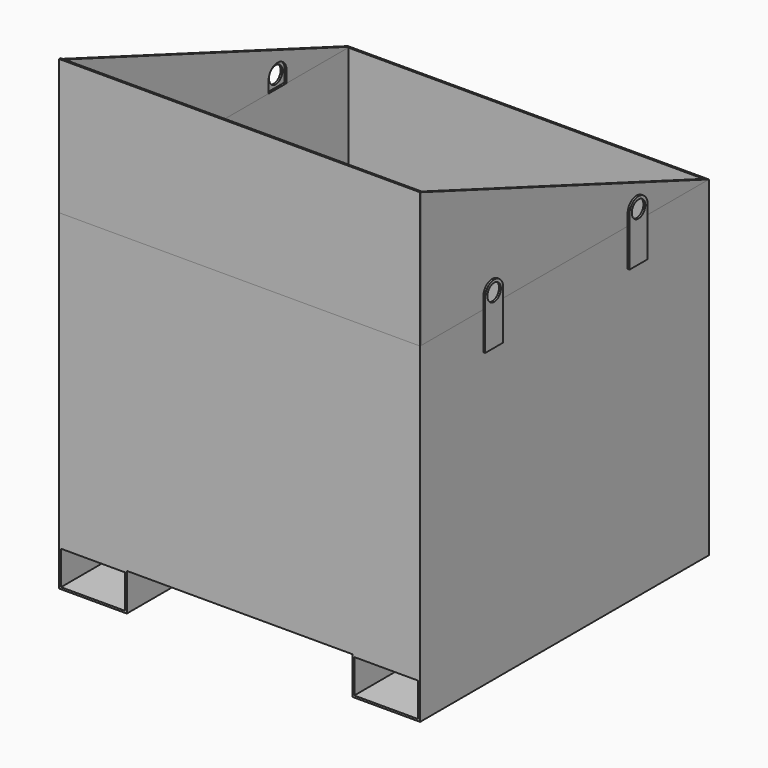
from build123d import *

# Parameters (mm, degrees)
F0_W      = 228.6
F0_H      = 127
F0_W_2    = 215.9
F0_H_2    = 114.3
F1_DEPTH  = 1219.2
F2_W      = 1206.5
F2_H      = 1206.5
F3_DEPTH  = 965.2
F4_DEPTH  = 1219.2
F5_R      = 28.575
F7_DEPTH  = 6.35
F5_W      = 76.2
F5_H      = 126.3139492095
F6_W      = 76.2
F6_H      = 127
F6_R      = 28.575
F8_DEPTH  = 6.35
F9_DEPTH  = 6.35
F10_DEPTH = 6.35
F11_W     = 1219.2
F11_H     = 457.2
F12_DEPTH = 6.35


with BuildPart() as f1:
    # F0 (on Front) → F1 (new body)
    with BuildSketch(Plane.XZ):
        Polygon((1299.3415698051, 1047.566442287), (80.1415698051, 1047.566442287), (80.1415698051, 56.966442287), (308.7415698051, 56.966442287), (1070.7415698051, 56.966442287), (1299.3415698051, 56.966442287), align=None)
        with Locations((194.4415698051, -6.533557713)):
            Rectangle(F0_W, F0_H)
        with Locations((194.4415698051, -6.533557713)):
            Rectangle(F0_W_2, F0_H_2, mode=Mode.SUBTRACT)
        with Locations((1185.0415698051, -6.533557713)):
            Rectangle(F0_W, F0_H)
        with Locations((1185.0415698051, -6.533557713)):
            Rectangle(F0_W_2, F0_H_2, mode=Mode.SUBTRACT)
    extrude(amount=F1_DEPTH)

    # F2 (on face) → F3 (cut)
    with BuildSketch(Plane.XY.offset(1047.566442287)):
        with Locations((689.7415698051, -609.6)):
            Rectangle(F2_W, F2_H)
    extrude(amount=-F3_DEPTH, mode=Mode.SUBTRACT)

    # F0 (on Front) → F4 (cut)
    with BuildSketch(Plane.XZ):
        with Locations((1185.0415698051, -6.533557713)):
            Rectangle(F0_W_2, F0_H_2)
        with Locations((194.4415698051, -6.533557713)):
            Rectangle(F0_W_2, F0_H_2)
    extrude(amount=F4_DEPTH, mode=Mode.SUBTRACT)

    # F5 (on face) → F7, piece 2 (join)
    with BuildSketch(Plane(origin=(80.1415698051, 0, 0), x_dir=(0, -1, 0), z_dir=(-1, 0, 0))):
        with Locations((304.8, 984.4094676822)):
            Rectangle(F5_W, F5_H)
        with Locations((914.4, 984.4094676822)):
            Rectangle(F5_W, F5_H)
    extrude(amount=F7_DEPTH)

    # F6 (on face) → F8 (join)
    with BuildSketch(Plane.YZ.offset(1299.3415698051)):
        with Locations((-914.4, 984.066442287)):
            Rectangle(F6_W, F6_H)
        with BuildLine():
            Line((-952.5, 1047.566442287), (-876.3, 1047.566442287))
            Line((-876.3, 1047.566442287), (-876.3, 1085.666442287))
            ThreePointArc((-876.3, 1085.666442287), (-914.4, 1123.766442287), (-952.5, 1085.666442287))
            Line((-952.5, 1085.666442287), (-952.5, 1047.566442287))
        make_face()
        with Locations((-914.4, 1085.666442287)):
            Circle(F6_R, mode=Mode.SUBTRACT)
        with Locations((-304.8, 984.066442287)):
            Rectangle(F6_W, F6_H)
        with BuildLine():
            Line((-342.9, 1085.666442287), (-342.9, 1047.566442287))
            Line((-342.9, 1047.566442287), (-266.7, 1047.566442287))
            Line((-266.7, 1047.566442287), (-266.7, 1085.666442287))
            ThreePointArc((-266.7, 1085.666442287), (-304.8, 1123.766442287), (-342.9, 1085.666442287))
        make_face()
        with Locations((-304.8, 1085.666442287)):
            Circle(F6_R, mode=Mode.SUBTRACT)
    extrude(amount=F8_DEPTH)


with BuildPart() as f7:
    # F5 (on face) → F7 (new body)
    with BuildSketch(Plane(origin=(80.1415698051, 0, 0), x_dir=(0, -1, 0), z_dir=(-1, 0, 0))):
        with BuildLine():
            Line((266.7, 1048.2524930775), (342.9, 1048.2524930775))
            Line((342.9, 1048.2524930775), (342.9, 1086.3524930775))
            ThreePointArc((342.9, 1086.3524930775), (304.8, 1124.4524930775), (266.7, 1086.3524930775))
            Line((266.7, 1086.3524930775), (266.7, 1048.2524930775))
        make_face()
        with Locations((304.8, 1086.3524930775)):
            Circle(F5_R, mode=Mode.SUBTRACT)
    extrude(amount=F7_DEPTH)


with BuildPart() as f7b:
    # F5 (on face) → F7, piece 3 (new body)
    with BuildSketch(Plane(origin=(80.1415698051, 0, 0), x_dir=(0, -1, 0), z_dir=(-1, 0, 0))):
        with BuildLine():
            Line((876.3, 1086.3524930775), (876.3, 1048.2524930775))
            Line((876.3, 1048.2524930775), (952.5, 1048.2524930775))
            Line((952.5, 1048.2524930775), (952.5, 1086.3524930775))
            ThreePointArc((952.5, 1086.3524930775), (914.4, 1124.4524930775), (876.3, 1086.3524930775))
        make_face()
        with Locations((914.4, 1086.3524930775)):
            Circle(F5_R, mode=Mode.SUBTRACT)
    extrude(amount=F7_DEPTH)


with BuildPart() as f9:
    # F5 (on face) → F9 (new body)
    with BuildSketch(Plane(origin=(80.1415698051, 0, 0), x_dir=(0, -1, 0), z_dir=(-1, 0, 0))):
        with BuildLine():
            Line((342.9, 1048.2524930775), (342.9, 1047.566442287))
            Line((342.9, 1047.566442287), (876.3, 1047.566442287))
            Line((876.3, 1047.566442287), (876.3, 1048.2524930775))
            Line((876.3, 1048.2524930775), (876.3, 1086.3524930775))
            ThreePointArc((876.3, 1086.3524930775), (914.4, 1124.4524930775), (952.5, 1086.3524930775))
            Line((952.5, 1086.3524930775), (952.5, 1048.2524930775))
            Line((952.5, 1048.2524930775), (952.5, 1047.566442287))
            Line((952.5, 1047.566442287), (1219.2, 1047.566442287))
            Line((1219.2, 1047.566442287), (1219.2, 1504.766442287))
            Line((1219.2, 1504.766442287), (0, 1047.566442287))
            Line((0, 1047.566442287), (266.7, 1047.566442287))
            Line((266.7, 1047.566442287), (266.7, 1048.2524930775))
            Line((266.7, 1048.2524930775), (266.7, 1086.3524930775))
            ThreePointArc((266.7, 1086.3524930775), (304.8, 1124.4524930775), (342.9, 1086.3524930775))
            Line((342.9, 1086.3524930775), (342.9, 1048.2524930775))
        make_face()
    extrude(amount=-F9_DEPTH)


with BuildPart() as f10:
    # F6 (on face) → F10 (new body)
    with BuildSketch(Plane.YZ.offset(1299.3415698051)):
        with BuildLine():
            Line((-876.3, 1085.666442287), (-876.3, 1047.566442287))
            Line((-876.3, 1047.566442287), (-342.9, 1047.566442287))
            Line((-342.9, 1047.566442287), (-342.9, 1085.666442287))
            ThreePointArc((-342.9, 1085.666442287), (-304.8, 1123.766442287), (-266.7, 1085.666442287))
            Line((-266.7, 1085.666442287), (-266.7, 1047.566442287))
            Line((-266.7, 1047.566442287), (0, 1047.566442287))
            Line((0, 1047.566442287), (-1219.2, 1504.766442287))
            Line((-1219.2, 1504.766442287), (-1219.2, 1047.566442287))
            Line((-1219.2, 1047.566442287), (-952.5, 1047.566442287))
            Line((-952.5, 1047.566442287), (-952.5, 1085.666442287))
            ThreePointArc((-952.5, 1085.666442287), (-914.4, 1123.766442287), (-876.3, 1085.666442287))
        make_face()
    extrude(amount=-F10_DEPTH)


with BuildPart() as f12:
    # F11 (on face) → F12 (new body)
    with BuildSketch(Plane.XZ.offset(1219.2)):
        with Locations((689.7415698051, 1276.166442287)):
            Rectangle(F11_W, F11_H)
    extrude(amount=-F12_DEPTH)


solid = Compound([f1.part, f7.part, f7b.part, f9.part, f10.part, f12.part])
